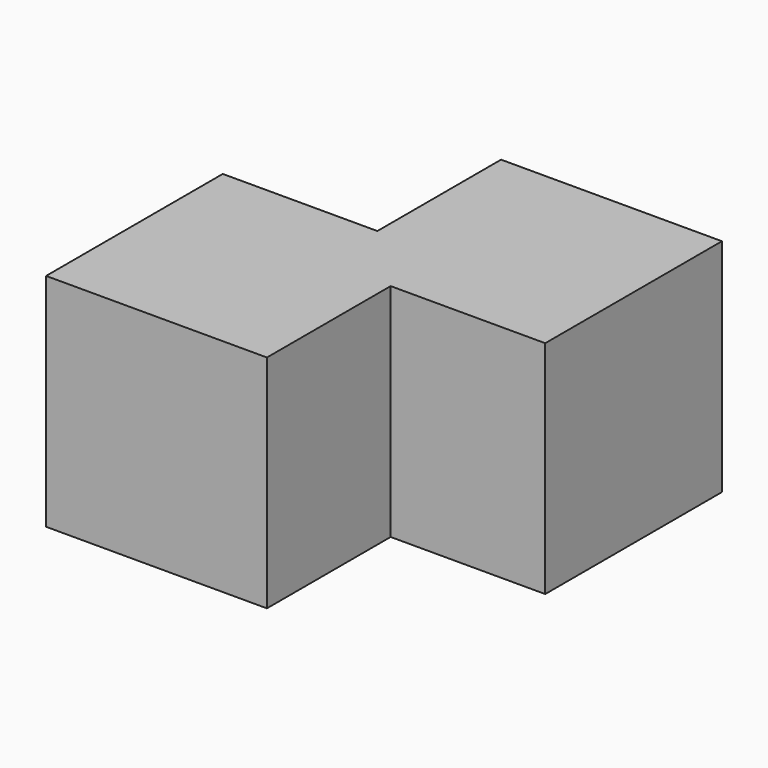
from build123d import *

# Parameters (mm, degrees)
BOX001_W     = 10
BOX001_H     = 10
BOX001_DEPTH = 10
BOX_W        = 10
BOX_H        = 10
BOX_DEPTH    = 10


with BuildPart() as cubo001:
    # Box001 → Box001 (new body)
    with BuildSketch(Plane(origin=(7, 7, 0), x_dir=(1, 0, 0), z_dir=(0, 0, 1))):
        with Locations((5, 5)):
            Rectangle(BOX001_W, BOX001_H)
    extrude(amount=BOX001_DEPTH)


with BuildPart() as fusion:
    # Box → Box (new body)
    with BuildSketch(Plane.XY):
        with Locations((5, 5)):
            Rectangle(BOX_W, BOX_H)
    extrude(amount=BOX_DEPTH)

    # Fusion: union Cubo001
    add(cubo001.part)


solid = fusion.part
